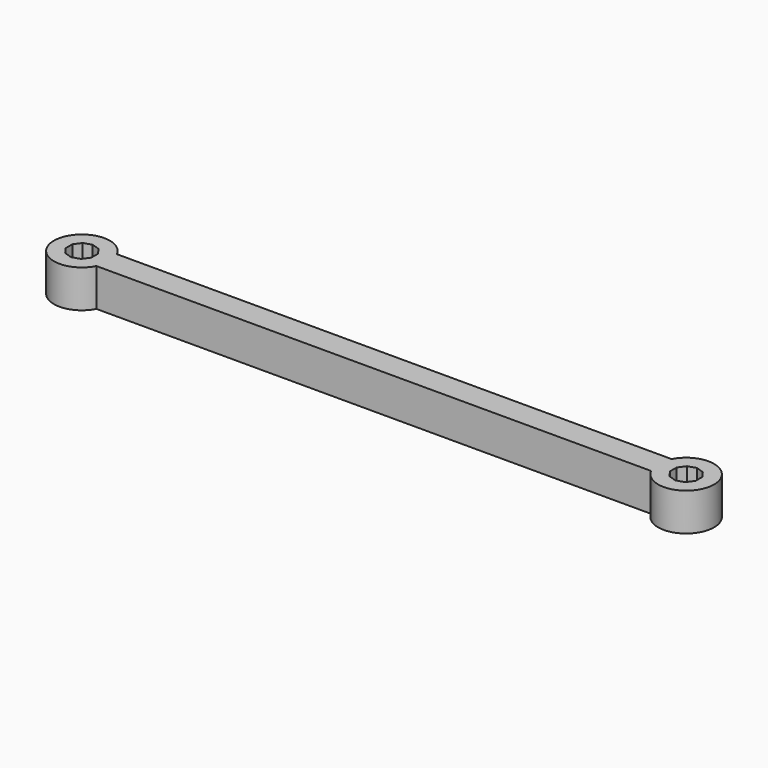
from build123d import *

# Parameters (mm, degrees)
F1_DEPTH = 5


with BuildPart() as f1:
    # F0 (on Top) → F1 (new body)
    with BuildSketch(Plane.XY):
        with BuildLine():
            Line((36.713665, 1.7), (-36.713665, 1.7))
            ThreePointArc((-36.713665, 1.7), (-43.7, 0), (-36.713665, -1.7))
            Line((-36.713665, -1.7), (36.713665, -1.7))
            ThreePointArc((36.713665, -1.7), (43.7, 0), (36.713665, 1.7))
        make_face()
        Polygon((-41.050658, -1.446106), (-41.7, -0.552363), (-41.7, 0.552363), (-41.050658, 1.446106), (-40, 1.787486), (-38.949342, 1.446106), (-38.3, 0.552363), (-38.3, -0.552363), (-38.949342, -1.446106), (-40, -1.787486), align=None, mode=Mode.SUBTRACT)
        Polygon((41.050658, 1.446106), (41.7, 0.552363), (41.7, -0.552363), (41.050658, -1.446106), (40, -1.787486), (38.949342, -1.446106), (38.3, -0.552363), (38.3, 0.552363), (38.949342, 1.446106), (40, 1.787486), align=None, mode=Mode.SUBTRACT)
    extrude(amount=F1_DEPTH)


solid = f1.part
